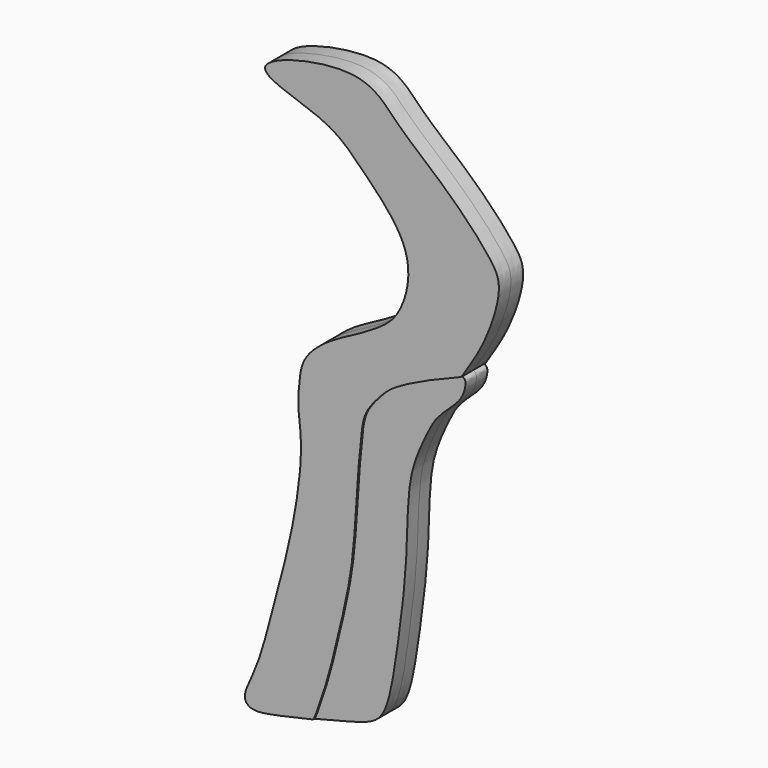
from build123d import *

# Parameters (mm, degrees)
F1_DEPTH = 5
F2_DEPTH = 4.5


with BuildPart() as f1:
    # F0 (on Front) → F1 (new body, symmetric)
    with BuildSketch(Plane.XZ):
        with BuildLine():
            add(Edge.make_bspline(
                [(-38.4680405259, -27.7967173606), (-35.7399018734, -17.6331761292), (-32.0096807045, -3.7364294039), (-28.5862281448, 20.9015139603), (-30.7908857182, 30.9704679325), (-30.1777180969, 39.2916199421), (-29.1423125995, 47.4484204374), (-20.4875833565, 54.6705982976), (-12.8053787386, 58.4589522802), (-4.8077664152, 63.0380741967), (2.8166268285, 68.5028382306), (7.1546809575, 82.1723558083), (3.3175236959, 95.1067903361), (-10.9492243936, 109.1576369515), (-20.4561130925, 118.8686364117), (-55.4031439272, 126.9143974808), (-9.4242530924, 138.8977585068), (1.2467746145, 124.8783002381), (16.141546118, 113.1792404083), (27.2382884235, 102.2057378701), (31.8021932386, 96.6847978267), (36.121743249, 91.0510795857), (35.3168318932, 82.3778738283), (30.8570326701, 70.0978105882), (25.5138270401, 61.7784645326), (24.0584031336, 59.4854674583), (23.2530292124, 58.2165904343)],
                knots=[0, 0, 0, 0, 0.0599302287, 0.1162935775, 0.1533194158, 0.1861008275, 0.2187549826, 0.2567248494, 0.2913127636, 0.3261884513, 0.3613800072, 0.4036671749, 0.4458074516, 0.4963489723, 0.5435456177, 0.5953361803, 0.6582483433, 0.7071556596, 0.7578351564, 0.8035957267, 0.8345614566, 0.8640042524, 0.8974082458, 0.9402510646, 0.9763455005, 1, 1, 1, 1], degree=3))
            add(Edge.make_bspline(
                [(-38.4680405259, -27.7967173606), (-40.359865433, -35.1090132444), (-43.4641436536, -47.1076928161), (-47.7836862196, -54.8139899541), (-48.3202599329, -58.7638492338), (-45.5045566339, -61.1116371721), (-39.1337393521, -60.050924724), (-29.7013389823, -57.9363762719), (-25.5272673958, -56.9397316705)],
                knots=[0, 0, 0, 0, 0.0848860668, 0.1391996617, 0.1731711078, 0.2034498724, 0.2588056759, 0.3018544972, 0.3018544972, 0.3018544972, 0.3018544972], degree=3))
            add(Edge.make_bspline(
                [(23.2530292124, 58.2165904343), (20.1722520428, 56.9898297798), (13.9654741871, 54.5183005228), (4.4569118654, 50.0339446942), (-1.2577345908, 46.4712430776), (-5.7379435255, 41.3674442401), (-8.9483278574, 36.9253390503), (-9.863127999, 29.5104070194), (-10.6980353526, 20.3229491945), (-11.6143551054, 5.8866115934), (-12.7944138543, -11.7157139277), (-18.3132311964, -33.7511921537), (-20.5756857037, -43.3436029629), (-24.4628082801, -54.9223288969), (-25.2789764188, -56.4842199144), (-25.5272673958, -56.9397316705)],
                knots=[0, 0, 0, 0, 0.0786488399, 0.1584099211, 0.2226400046, 0.2858654103, 0.3429902729, 0.4087296152, 0.4839451306, 0.5767987213, 0.6832314697, 0.799392997, 0.881173004, 0.9647117584, 1, 1, 1, 1], degree=3))
        make_face()
    extrude(amount=F1_DEPTH, both=True)

    # F0 (on Front) → F2 (join, symmetric)
    with BuildSketch(Plane.XZ):
        with BuildLine():
            add(Edge.make_bspline(
                [(-25.5272673958, -56.9397316705), (-20.3888152499, -55.7128215697), (-9.5627309259, -52.938302007), (-1.8268755542, -49.821158036), (1.4930201584, -30.24275571), (4.75598289, -5.7486560661), (5.0448342307, 11.0701016142), (5.8785350068, 25.5199862342), (10.9722591983, 36.6228872992), (14.6049615283, 44.1846569531), (22.3523236206, 50.0696787034), (24.1691213273, 54.6995458815), (24.3788388553, 57.4883130536), (23.5058912135, 57.9193685975), (23.2530292124, 58.2165904343)],
                knots=[0.3018544972, 0.3018544972, 0.3018544972, 0.3018544972, 0.3548493498, 0.4119590549, 0.4914027229, 0.586373314, 0.663362757, 0.7337606415, 0.7981939232, 0.8525639368, 0.9098472891, 0.9511915235, 0.9798566953, 1, 1, 1, 1], degree=3))
            add(Edge.make_bspline(
                [(23.2530292124, 58.2165904343), (20.1722520428, 56.9898297798), (13.9654741871, 54.5183005228), (4.4569118654, 50.0339446942), (-1.2577345908, 46.4712430776), (-5.7379435255, 41.3674442401), (-8.9483278574, 36.9253390503), (-9.863127999, 29.5104070194), (-10.6980353526, 20.3229491945), (-11.6143551054, 5.8866115934), (-12.7944138543, -11.7157139277), (-18.3132311964, -33.7511921537), (-20.5756857037, -43.3436029629), (-24.4628082801, -54.9223288969), (-25.2789764188, -56.4842199144), (-25.5272673958, -56.9397316705)],
                knots=[0, 0, 0, 0, 0.0786488399, 0.1584099211, 0.2226400046, 0.2858654103, 0.3429902729, 0.4087296152, 0.4839451306, 0.5767987213, 0.6832314697, 0.799392997, 0.881173004, 0.9647117584, 1, 1, 1, 1], degree=3))
        make_face()
    extrude(amount=F2_DEPTH, both=True)


solid = f1.part
